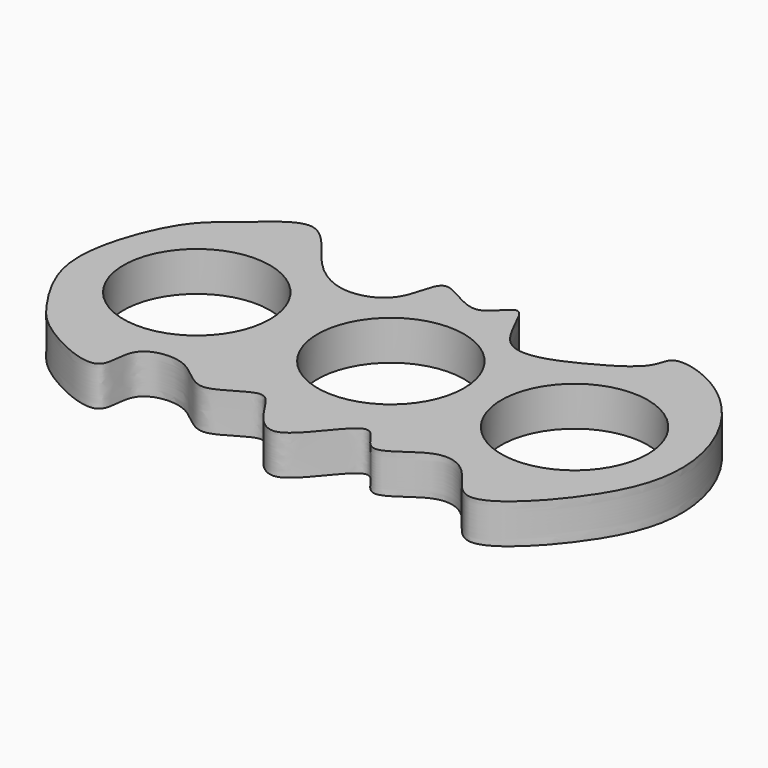
from build123d import *

# Parameters (mm, degrees)
F0_R     = 11.0998
F1_DEPTH = 6


with BuildPart() as f1:
    # F0 (on Top) → F1 (new body)
    with BuildSketch(Plane.XY):
        with BuildLine():
            add(Edge.make_bspline(
                [(-40.9368425608, 14.3291288987), (-38.5115121005, 13.9419411111), (-34.5327070308, 6.6660884724), (-27.223339478, 2.9005517407), (-20.4612741314, 6.0849632771), (-20.3688152434, 15.2606207992), (-12.0651921752, 7.0871618634), (-7.9591021572, 16.2649682516), (-5.0019970548, 1.9204351683), (6.6283805419, 6.9920141928), (13.2079776629, 11.1444469028), (13.1721762744, 15.361185125), (21.4522020581, 13.2985936586), (29.6995436758, 4.9695362261), (33.1247235387, -7.2993949392), (29.1969621993, -18.6496910574), (16.5360783336, -31.8381259476), (12.4817844823, -22.5424259667), (6.2906061306, -20.7635172886), (-0.3527866451, -28.2249587153), (-3.2660727376, -18.1802031318), (-11.0736481842, -33.3298331979), (-16.4363864777, -25.3479041022), (-18.8029890096, -21.4262267829), (-25.8934424305, -28.1488823941), (-30.0767720264, -21.3186484322), (-38.8044894415, -22.4507756598), (-36.7375620517, -31.7531806834), (-49.2042017089, -25.8610336174), (-52.7735789788, -21.3590368784), (-56.8650386701, -14.9944511055), (-58.5750477913, -6.9893342243), (-53.9306215332, 6.0287254082), (-47.9796164836, 9.8691121826), (-43.1102750575, 14.676102861), (-40.9368425608, 14.3291288987)],
                knots=[0, 0, 0, 0, 0.0342407665, 0.0651834385, 0.0928807417, 0.1189802681, 0.1482665942, 0.1723651327, 0.2044466967, 0.2398236755, 0.2706703997, 0.2885351597, 0.3166362485, 0.3548006063, 0.3926535305, 0.4318452035, 0.4733130568, 0.5019938247, 0.5280933345, 0.5575041832, 0.5811973842, 0.6169764273, 0.6449103805, 0.6658538488, 0.6946788278, 0.7223761372, 0.7502056474, 0.7756438873, 0.8103366654, 0.8387513109, 0.8678050618, 0.8993039663, 0.9388321663, 0.9693155238, 1, 1, 1, 1], degree=3))
        make_face()
        with Locations((-41.0776868474, -7.3361833006)):
            Circle(F0_R, mode=Mode.SUBTRACT)
        with Locations((-12.1159860864, -6.7684547976)):
            Circle(F0_R, mode=Mode.SUBTRACT)
        with Locations((15.4262026772, -6.3859242946)):
            Circle(F0_R, mode=Mode.SUBTRACT)
    extrude(amount=F1_DEPTH)


solid = f1.part
